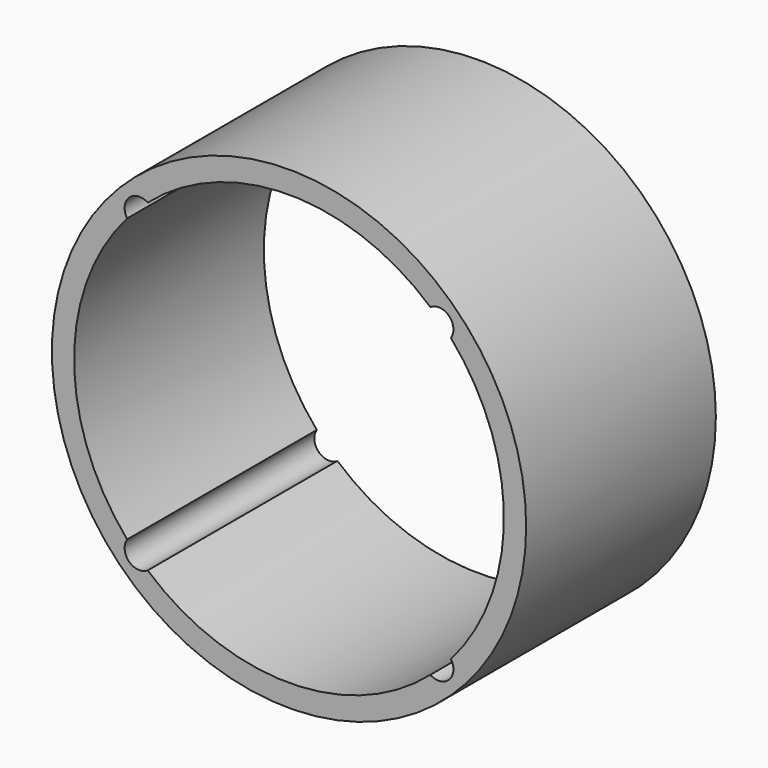
from build123d import *

# Parameters (mm, degrees)
F0_R     = 50.8
F1_DEPTH = 50.8


with BuildPart() as f1:
    # F0 (on Front) → F1 (new body)
    with BuildSketch(Plane.XZ):
        Circle(F0_R)
        with BuildLine():
            ThreePointArc((-34.681557, 30.27608), (-34.29, 34.29), (-30.27608, 34.681557))
            ThreePointArc((-30.27608, 34.681557), (0, 46.0375), (30.27608, 34.681557))
            ThreePointArc((30.27608, 34.681557), (34.29, 34.29), (34.681557, 30.27608))
            ThreePointArc((34.681557, 30.27608), (46.0375, 0), (34.681557, -30.27608))
            ThreePointArc((34.681557, -30.27608), (34.29, -34.29), (30.27608, -34.681557))
            ThreePointArc((30.27608, -34.681557), (0, -46.0375), (-30.27608, -34.681557))
            ThreePointArc((-30.27608, -34.681557), (-34.29, -34.29), (-34.681557, -30.27608))
            ThreePointArc((-34.681557, -30.27608), (-46.0375, 0), (-34.681557, 30.27608))
        make_face(mode=Mode.SUBTRACT)
    extrude(amount=F1_DEPTH)


solid = f1.part
